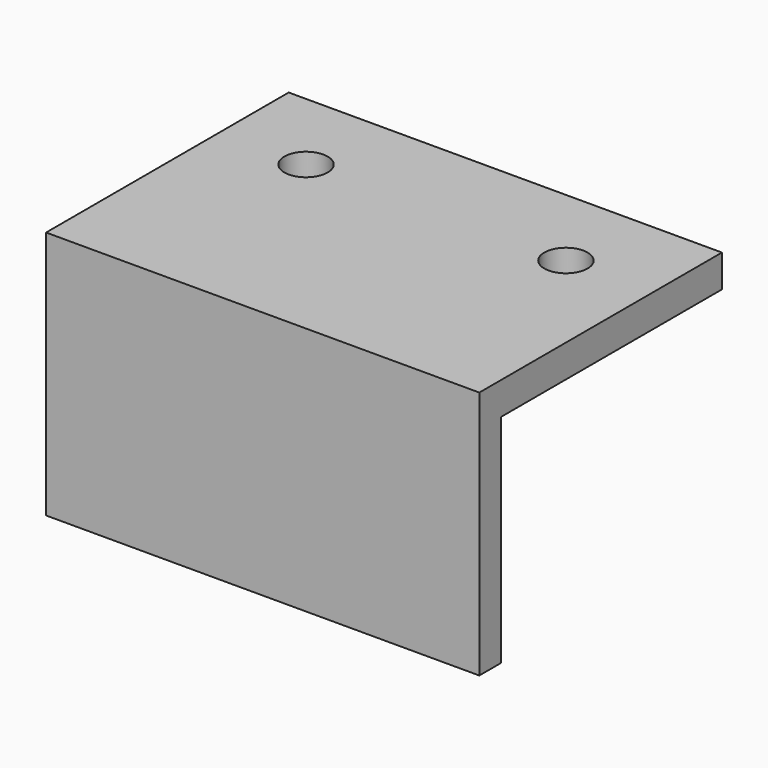
from build123d import *

# Parameters (mm, degrees)
SKETCH002_W     = 40
SKETCH002_H     = 28
PAD_DEPTH       = 3
SKETCH_R        = 2
POCKET_DEPTH    = 5
SKETCH001_R     = 2
POCKET001_DEPTH = 5
SKETCH003_W     = 40
SKETCH003_H     = 2.5
PAD001_DEPTH    = 20


with BuildPart() as part:
    # Sketch002 → Pad (new body)
    with BuildSketch(Plane.XY):
        with Locations((12, -6)):
            Rectangle(SKETCH002_W, SKETCH002_H)
    extrude(amount=PAD_DEPTH)

    # Sketch → Pocket (cut)
    with BuildSketch(Plane.XY):
        Circle(SKETCH_R)
    extrude(amount=POCKET_DEPTH, mode=Mode.SUBTRACT)

    # Sketch001 → Pocket001 (cut)
    with BuildSketch(Plane.XY):
        with Locations((24, 0)):
            Circle(SKETCH001_R)
    extrude(amount=POCKET001_DEPTH, mode=Mode.SUBTRACT)

    # Sketch003 → Pad001 (join)
    with BuildSketch(Plane.XY):
        with Locations((12, -18.75)):
            Rectangle(SKETCH003_W, SKETCH003_H)
    extrude(amount=-PAD001_DEPTH)


solid = part.part
